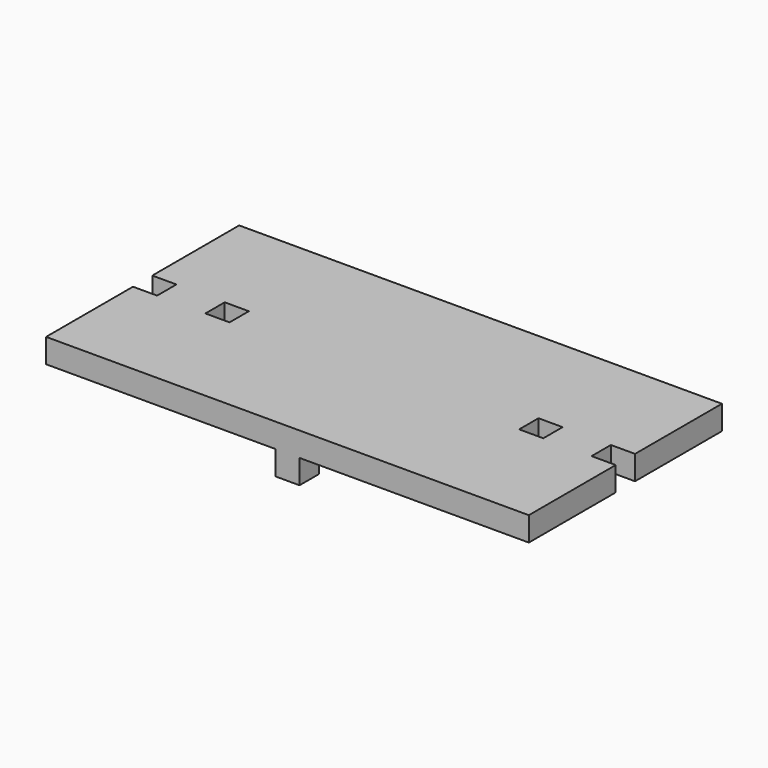
from build123d import *

# Parameters (mm, degrees)
F0_W     = 100
F0_H     = 50
F1_DEPTH = 5
F2_W     = 5
F2_H     = 5
F3_DEPTH = 5
F4_W     = 5
F4_H     = 5
F5_DEPTH = 5
F6_W     = 5
F6_H     = 5
F7_DEPTH = 5


with BuildPart() as f1:
    # F0 (on Top) → F1 (new body)
    with BuildSketch(Plane.XY):
        Rectangle(F0_W, F0_H)
    extrude(amount=F1_DEPTH)

    # F2 (on face) → F3 (join)
    with BuildSketch(Plane(origin=(0, 25, 0), x_dir=(-1, 0, 0), z_dir=(0, 1, 0))):
        with Locations((0, -2.5)):
            Rectangle(F2_W, F2_H)
    extrude(amount=-F3_DEPTH)

    # F4 (on face) → F5 (join)
    with BuildSketch(Plane.XZ.offset(25)):
        with Locations((0, -2.5)):
            Rectangle(F4_W, F4_H)
    extrude(amount=-F5_DEPTH)

    # F6 (on face) → F7 (cut, through all)
    with BuildSketch(Plane.XY.offset(5)):
        Polygon((-50, 2.5), (-50, 0), (-50, -2.5), (-45, -2.5), (-45, 2.5), align=None)
        with Locations((-32.5, 0)):
            Rectangle(F6_W, F6_H)
        with Locations((32.5, 0)):
            Rectangle(F6_W, F6_H)
        Polygon((45, 2.5), (45, -2.5), (50, -2.5), (50, 0), (50, 2.5), align=None)
    extrude(amount=-F7_DEPTH, mode=Mode.SUBTRACT)


solid = f1.part
